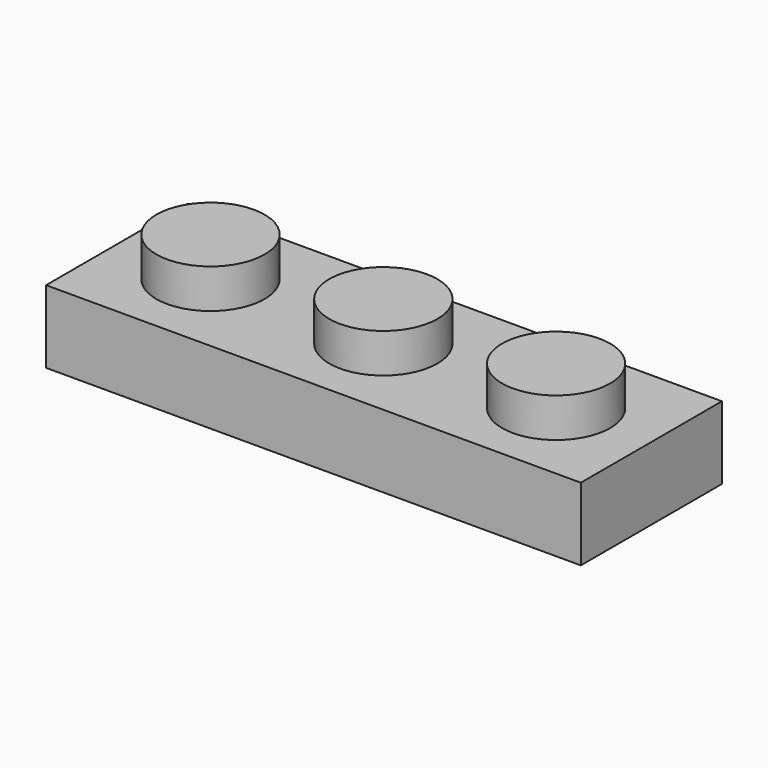
from build123d import *

# Parameters (mm, degrees)
F0_W     = 23.876
F0_H     = 7.874
F1_DEPTH = 3.2512
F2_W     = 21.082
F2_H     = 5.08
F3_DEPTH = 1.778
F4_R     = 2.413
F5_DEPTH = 1.7526
F6_R     = 1.524
F7_DEPTH = 1.778


with BuildPart() as f1:
    # F0 (on Top) → F1 (new body)
    with BuildSketch(Plane.XY):
        Rectangle(F0_W, F0_H)
    extrude(amount=F1_DEPTH)

    # F2 (on face) → F3 (cut)
    with BuildSketch(Plane(origin=(0, 0, 0), x_dir=(1, 0, 0), z_dir=(0, 0, -1))):
        Rectangle(F2_W, F2_H)
    extrude(amount=-F3_DEPTH, mode=Mode.SUBTRACT)

    # F4 (on face) → F5 (join)
    with BuildSketch(Plane.XY.offset(3.2512)):
        with BuildLine():
            ThreePointArc((-5.334, 0), (-7.747, 2.413), (-10.16, 0))
            ThreePointArc((-10.16, 0), (-7.747, -2.413), (-5.334, 0))
        make_face()
        with Locations((-9.4e-05, -0.038094)):
            Circle(F4_R)
        with Locations((7.746813, -0.076188)):
            Circle(F4_R)
    extrude(amount=F5_DEPTH)

    # F6 (on face) → F7 (join)
    with BuildSketch(Plane(origin=(0, 0, 1.778), x_dir=(1, 0, 0), z_dir=(0, 0, -1))):
        with BuildLine():
            ThreePointArc((-2.6924, 0), (-4.2164, 1.524), (-5.7404, 0))
            ThreePointArc((-5.7404, 0), (-4.2164, -1.524), (-2.6924, 0))
        make_face()
        with Locations((4.2164, 0)):
            Circle(F6_R)
    extrude(amount=F7_DEPTH)


solid = f1.part
